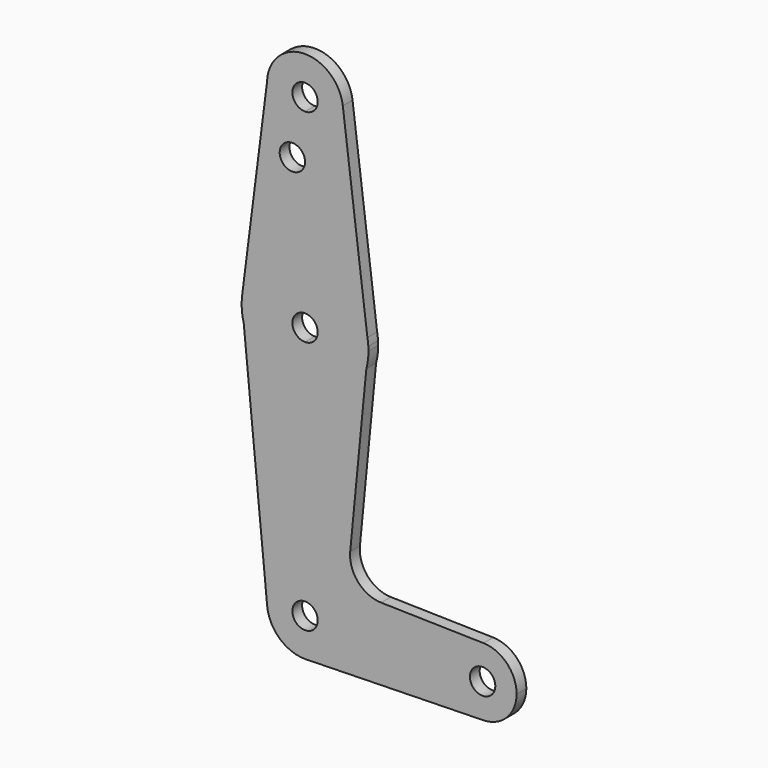
from build123d import *

# Parameters (mm, degrees)
F0_R     = 3.175
F1_DEPTH = 3.048


with BuildPart() as f1:
    # F0 (on Front) → F1 (new body)
    with BuildSketch(Plane.XZ):
        with BuildLine():
            ThreePointArc((-9.5227059175, 74.0137589204), (-6.808697187, 67.143844735), (0, 64.2797206245))
            ThreePointArc((0, 64.2797206245), (6.7351920908, 67.0695285337), (9.525, 73.8047206245))
            ThreePointArc((9.525, 73.8047206245), (9.5064667186, 74.3986192092), (9.4509389966, 74.9902066359))
            ThreePointArc((9.4509389966, 74.9902066359), (-0.4895407623, 83.3171322452), (-9.5227059175, 74.0137589204))
        make_face()
        with BuildLine():
            ThreePointArc((3.175, 73.8047206245), (2.2450640303, 71.5596565943), (0, 70.6297206245))
            ThreePointArc((0, 70.6297206245), (-2.2450640303, 76.0497846548), (3.175, 73.8047206245))
        make_face(mode=Mode.SUBTRACT)
        with BuildLine():
            ThreePointArc((9.525, 73.8047206245), (6.7351920908, 67.0695285337), (0, 64.2797206245))
            Line((0, 64.2797206245), (0, 59.5299206245))
            Line((0, 59.5299206245), (0, 38.8797206245))
            ThreePointArc((0, 38.8797206245), (10.1492942966, 35.2115814118), (15.6083178039, 25.9023127859))
            Line((15.6083178039, 25.9023127859), (9.4509389966, 74.9902066359))
            ThreePointArc((9.4509389966, 74.9902066359), (9.5064667186, 74.3986192092), (9.525, 73.8047206245))
        make_face()
        with BuildLine():
            Line((0, 59.5299206245), (0, 64.2797206245))
            ThreePointArc((0, 64.2797206245), (-6.808697187, 67.143844735), (-9.5227059175, 74.0137589204))
            Line((-9.5227059175, 74.0137589204), (-15.7484376101, 25.0053049991))
            ThreePointArc((-15.7484376101, 25.0053049991), (-10.4941971597, 34.916372524), (0, 38.8797206245))
            Line((0, 38.8797206245), (0, 59.5299206245))
        make_face()
        with Locations((-3.175, 59.5299206245)):
            Circle(F0_R, mode=Mode.SUBTRACT)
        with BuildLine():
            ThreePointArc((15.6083178039, 25.9023127859), (10.1492942966, 35.2115814118), (0, 38.8797206245))
            Line((0, 38.8797206245), (0, 26.1797206245))
            ThreePointArc((0, 26.1797206245), (2.2450640303, 25.2497846548), (3.175, 23.0047206245))
            ThreePointArc((3.175, 23.0047206245), (2.2450640303, 20.7596565943), (0, 19.8297206245))
            Line((0, 19.8297206245), (0, 7.1297206245))
            ThreePointArc((0, 7.1297206245), (9.6773008933, 10.4203862193), (15.3426633802, 18.9281650439))
            Line((15.3426633802, 18.9281650439), (15.8404225231, 24.0519260908))
            Line((15.8404225231, 24.0519260908), (15.6083178039, 25.9023127859))
        make_face()
        with BuildLine():
            Line((0, 26.1797206245), (0, 38.8797206245))
            ThreePointArc((0, 38.8797206245), (-10.4941971597, 34.916372524), (-15.7484376101, 25.0053049991))
            Line((-15.7484376101, 25.0053049991), (-15.3433330528, 18.9306862812))
            ThreePointArc((-15.3433330528, 18.9306862812), (-9.6783348206, 10.4211813728), (0, 7.1297206245))
            Line((0, 7.1297206245), (0, 19.8297206245))
            ThreePointArc((0, 19.8297206245), (-3.175, 23.0047206245), (0, 26.1797206245))
        make_face()
        with BuildLine():
            Line((-15.3433330528, 18.9306862812), (-15.7484376101, 25.0053049991))
            ThreePointArc((-15.7484376101, 25.0053049991), (-15.8398168828, 21.9483939143), (-15.3433330528, 18.9306862812))
        make_face()
        with BuildLine():
            ThreePointArc((15.8404225231, 24.0519260908), (15.7515649943, 24.9805306435), (15.6083178039, 25.9023127859))
            Line((15.6083178039, 25.9023127859), (15.8404225231, 24.0519260908))
        make_face()
        with BuildLine():
            ThreePointArc((0, 7.1297206245), (-9.6783348206, 10.4211813728), (-15.3433330528, 18.9306862812))
            Line((-15.3433330528, 18.9306862812), (-9.48036275, -41.4163369894))
            ThreePointArc((-9.48036275, -41.4163369894), (-7.0533218689, -34.0940079695), (0, -30.9702793755))
            Line((0, -30.9702793755), (0, 7.1297206245))
        make_face()
        with BuildLine():
            ThreePointArc((15.875, 23.0047206245), (15.866353276, 23.5286087067), (15.8404225231, 24.0519260908))
            Line((15.8404225231, 24.0519260908), (15.3426633802, 18.9281650439))
            ThreePointArc((15.3426633802, 18.9281650439), (15.7413532798, 20.9491375151), (15.875, 23.0047206245))
        make_face()
        with BuildLine():
            ThreePointArc((15.3426633802, 18.9281650439), (9.6773008933, 10.4203862193), (0, 7.1297206245))
            Line((0, 7.1297206245), (0, -30.9702793755))
            ThreePointArc((0, -30.9702793755), (6.7351920908, -33.7600872847), (9.525, -40.4952793755))
            Line((9.525, -40.4952793755), (35.941, -40.4952793755))
            ThreePointArc((35.941, -40.4952793755), (38.5022194429, -34.4102988952), (44.6440173804, -31.9884916001))
            Line((44.6440173804, -31.9884916001), (19.031491001, -31.4043374627))
            ThreePointArc((19.031491001, -31.4043374627), (13.2650781772, -28.7316833807), (11.2998188061, -22.6874834915))
            Line((11.2998188061, -22.6874834915), (15.3426633802, 18.9281650439))
        make_face()
        with BuildLine():
            ThreePointArc((0, -30.9702793755), (-7.0533218689, -34.0940079695), (-9.48036275, -41.4163369894))
            ThreePointArc((-9.48036275, -41.4163369894), (-6.401271406, -47.5486012444), (0, -50.0202793755))
            Line((0, -50.0202793755), (0.4342543401, -50.0103751799))
            ThreePointArc((0.4342543401, -50.0103751799), (6.8870130532, -47.0751483868), (9.525, -40.4952793755))
            Line((9.525, -40.4952793755), (3.175, -40.4952793755))
            ThreePointArc((3.175, -40.4952793755), (-2.2450640303, -42.7403434057), (0, -37.3202793755))
            Line((0, -37.3202793755), (0, -30.9702793755))
        make_face()
        with BuildLine():
            Line((0.4342543401, -50.0103751799), (0, -50.0202793755))
            ThreePointArc((0, -50.0202793755), (0.2171836348, -50.0178030047), (0.4342543401, -50.0103751799))
        make_face()
        with BuildLine():
            Line((35.941, -40.4952793755), (9.525, -40.4952793755))
            ThreePointArc((9.525, -40.4952793755), (6.8870130532, -47.0751483868), (0.4342543401, -50.0103751799))
            Line((0.4342543401, -50.0103751799), (44.6440173804, -49.0020671509))
            ThreePointArc((44.6440173804, -49.0020671509), (38.5022194429, -46.5802598557), (35.941, -40.4952793755))
        make_face()
        with BuildLine():
            ThreePointArc((44.6440173804, -31.9884916001), (38.5022194429, -34.4102988952), (35.941, -40.4952793755))
            ThreePointArc((35.941, -40.4952793755), (38.5022194429, -46.5802598557), (44.6440173804, -49.0020671509))
            ThreePointArc((44.6440173804, -49.0020671509), (50.5349804803, -46.4430599325), (52.959, -40.4952793755))
            ThreePointArc((52.959, -40.4952793755), (50.5349804803, -34.5474988184), (44.6440173804, -31.9884916001))
        make_face()
        with BuildLine():
            ThreePointArc((47.625, -40.4952793755), (44.45, -43.6702793755), (41.275, -40.4952793755))
            ThreePointArc((41.275, -40.4952793755), (44.45, -37.3202793755), (47.625, -40.4952793755))
        make_face(mode=Mode.SUBTRACT)
        with BuildLine():
            ThreePointArc((9.525, -40.4952793755), (6.7351920908, -33.7600872847), (0, -30.9702793755))
            Line((0, -30.9702793755), (0, -37.3202793755))
            ThreePointArc((0, -37.3202793755), (2.2450640303, -38.2502153452), (3.175, -40.4952793755))
            Line((3.175, -40.4952793755), (9.525, -40.4952793755))
        make_face()
    extrude(amount=F1_DEPTH)


solid = f1.part
